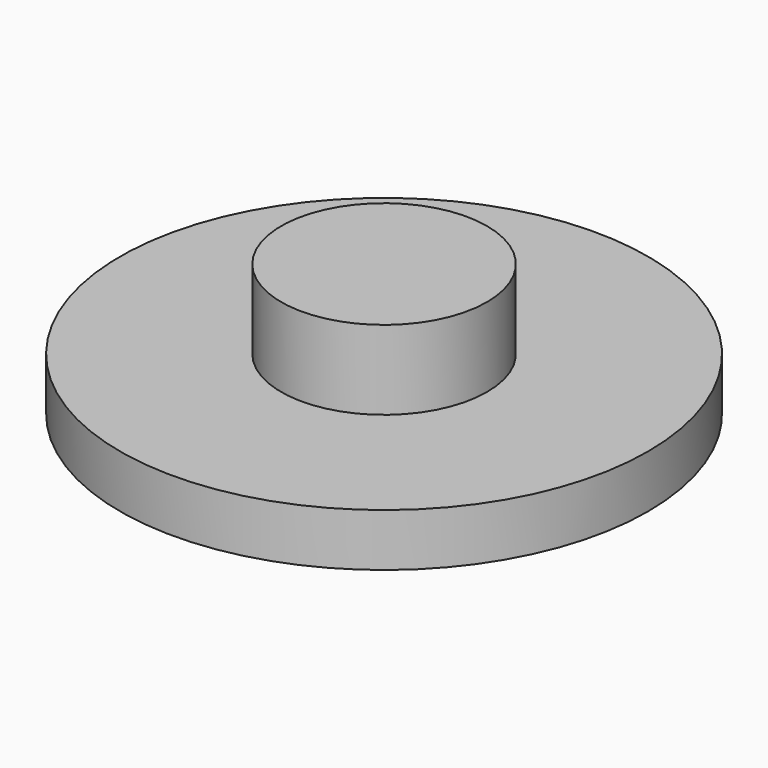
from build123d import *

# Parameters (mm, degrees)
F0_R     = 10
F2_DEPTH = 2
F1_R     = 3.9
F3_DEPTH = 5


with BuildPart() as f2:
    # F0 (on Top) → F2 (new body)
    with BuildSketch(Plane.XY):
        Circle(F0_R)
    extrude(amount=F2_DEPTH)


with BuildPart() as f3:
    # F1 (on Top) → F3 (new body)
    with BuildSketch(Plane.XY):
        Circle(F1_R)
    extrude(amount=F3_DEPTH)


solid = Compound([f2.part, f3.part])
